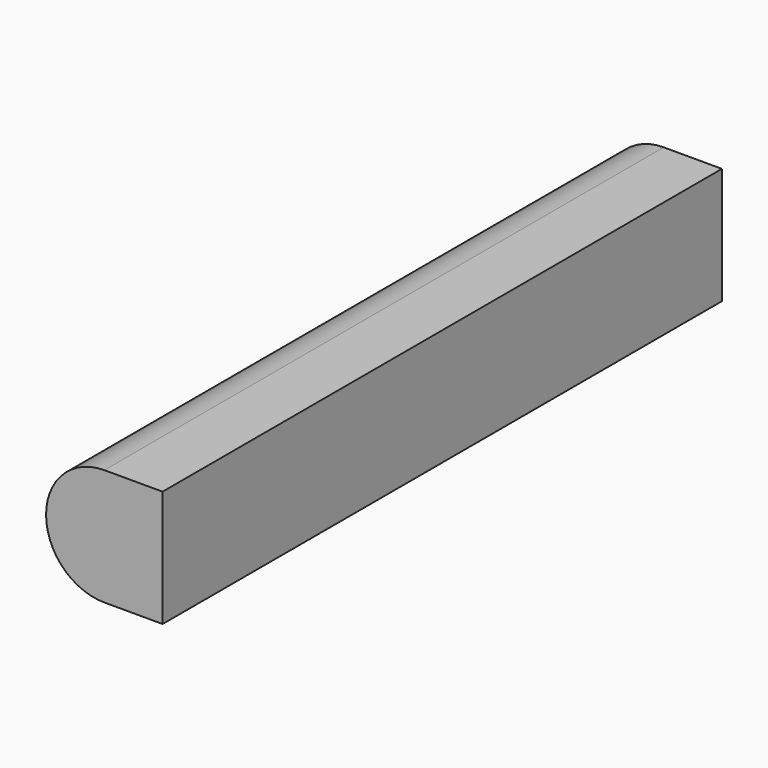
from build123d import *

# Parameters (mm, degrees)
CYLINDER_R                = 0.4
CYLINDER_DEPTH            = 4.8
BOX022_W                  = 0.8
BOX022_H                  = 0.4
BOX022_DEPTH              = 4.8
FUSION003_PITCH_ANGLE     = 90
FUSION003_PLACEMENT_ANGLE = -90


with BuildPart() as cylinder:
    # Cylinder → Cylinder (new body)
    with BuildSketch(Plane.XY):
        Circle(CYLINDER_R)
    extrude(amount=CYLINDER_DEPTH)


with BuildPart() as fusion003:
    # Box022 → Box022 (new body)
    with BuildSketch(Plane(origin=(-0.4, 0, 0), x_dir=(1, 0, 0), z_dir=(0, 0, 1))):
        with Locations((0.4, 0.2)):
            Rectangle(BOX022_W, BOX022_H)
    extrude(amount=BOX022_DEPTH)

    # Fusion003: union Cylinder
    add(cylinder.part)


with BuildPart() as fusion003_1:
    # Fusion003 pitch: moved
    add(fusion003.part.rotate(Axis((0, 0, 0), (0, 1, 0)), FUSION003_PITCH_ANGLE))


with BuildPart() as fusion003_2:
    # Fusion003 placement: moved
    add(fusion003_1.part.rotate(Axis((0, 0, 0), (0, 0, 1)), FUSION003_PLACEMENT_ANGLE))


solid = fusion003_2.part
